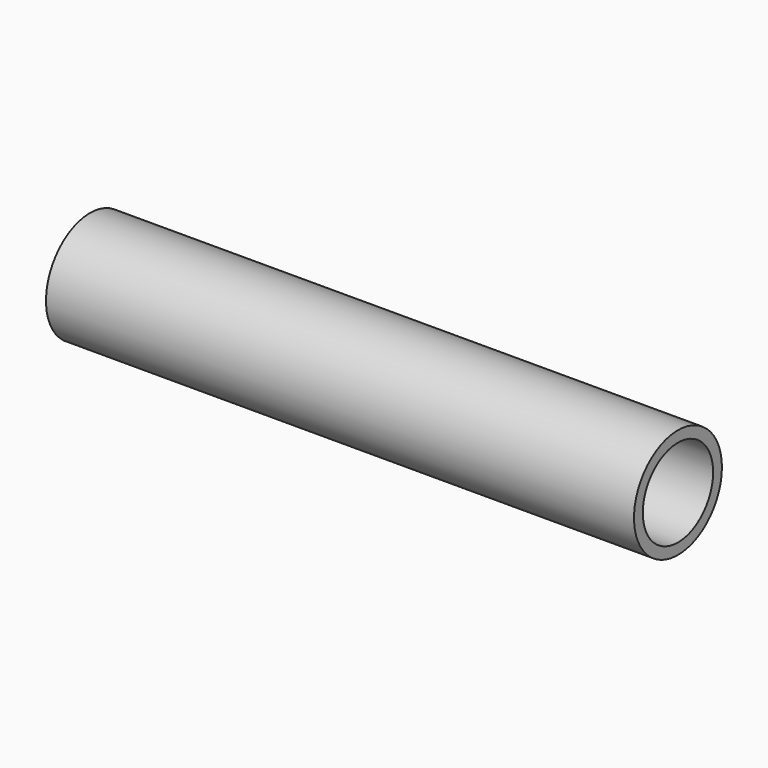
from build123d import *

# Parameters (mm, degrees)
F0_R     = 12.7
F1_DEPTH = 135.89
F2_T     = -2.54


with BuildPart() as f1:
    # F0 (on Right) → F1 (new body)
    with BuildSketch(Plane.YZ):
        Circle(F0_R)
    extrude(amount=F1_DEPTH)

    # F2
    f2_openings = [f1.faces().sort_by_distance(p)[0] for p in [
        (135.89, 0, 0),
        (0, 0, 0),
    ]]
    offset(amount=F2_T, openings=f2_openings)


solid = f1.part
